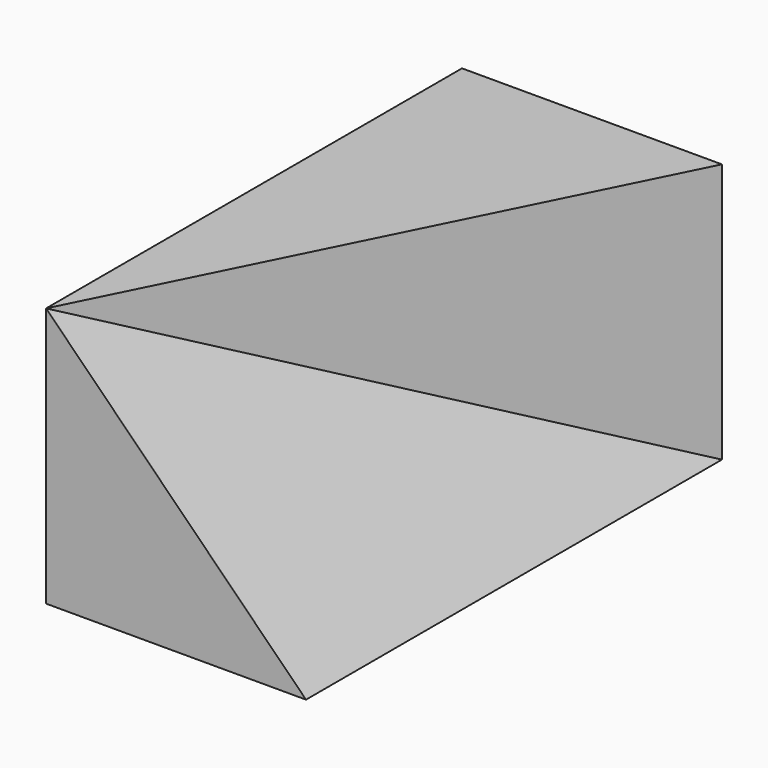
from build123d import *

# Parameters (mm, degrees)
F1_DEPTH = 50
F3_DEPTH = 100


with BuildPart() as f1:
    # F0 (on Top) → F1 (new body)
    with BuildSketch(Plane.XY):
        Polygon((0, 100), (0, 0), (50, 100), align=None)
    extrude(amount=F1_DEPTH)

    # F2 (on Front) → F3 (join, through all)
    with BuildSketch(Plane.XZ):
        Polygon((50, 0), (0, 50), (0, 0), align=None)
    extrude(amount=-F3_DEPTH)


solid = f1.part
